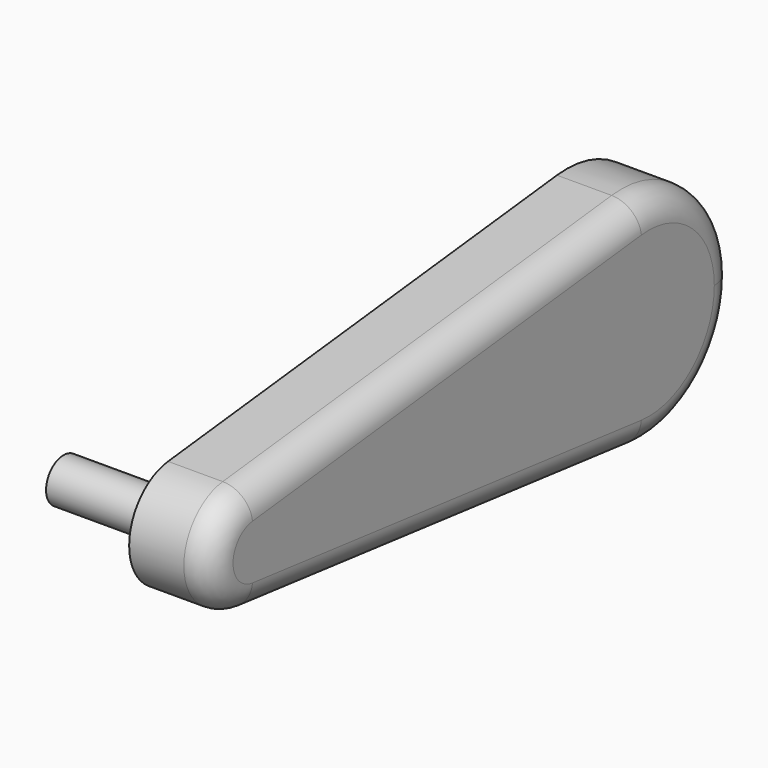
from build123d import *

# Parameters (mm, degrees)
F1_DEPTH = 15
F2_R     = 4
F3_DEPTH = 20
F4_R     = 5


with BuildPart() as f1:
    # F0 (on Right) → F1 (new body)
    with BuildSketch(Plane.YZ):
        with BuildLine():
            ThreePointArc((-2.222222, -19.87616), (-20, 0), (-2.222222, 19.87616))
            Line((-2.222222, 19.87616), (-91.111111, 9.93808))
            ThreePointArc((-91.111111, 9.93808), (-83.333333, 7.45356), (-80, 0))
            ThreePointArc((-80, 0), (-83.333333, -7.45356), (-91.111111, -9.93808))
            Line((-91.111111, -9.93808), (-2.222222, -19.87616))
        make_face()
        with BuildLine():
            ThreePointArc((-2.222222, -19.87616), (13.333333, -14.90712), (20, 0))
            ThreePointArc((20, 0), (13.333333, 14.90712), (-2.222222, 19.87616))
            ThreePointArc((-2.222222, 19.87616), (-20, 0), (-2.222222, -19.87616))
        make_face()
        with BuildLine():
            ThreePointArc((-80, 0), (-83.333333, 7.45356), (-91.111111, 9.93808))
            ThreePointArc((-91.111111, 9.93808), (-100, 0), (-91.111111, -9.93808))
            ThreePointArc((-91.111111, -9.93808), (-83.333333, -7.45356), (-80, 0))
        make_face()
    extrude(amount=F1_DEPTH)

    # F2 (on Right) → F3 (join)
    with BuildSketch(Plane.YZ):
        with Locations((-90, 0)):
            Circle(F2_R)
    extrude(amount=-F3_DEPTH)

    # F4
    f4_edges = [f1.edges().sort_by_distance(p)[0] for p in [
        (15, 13.333333, -14.90712),
        (15, 13.333333, 14.90712),
        (15, -46.666667, 14.90712),
        (15, -100, 0),
        (15, -46.666667, -14.90712),
    ]]
    fillet(f4_edges, radius=F4_R)


solid = f1.part
